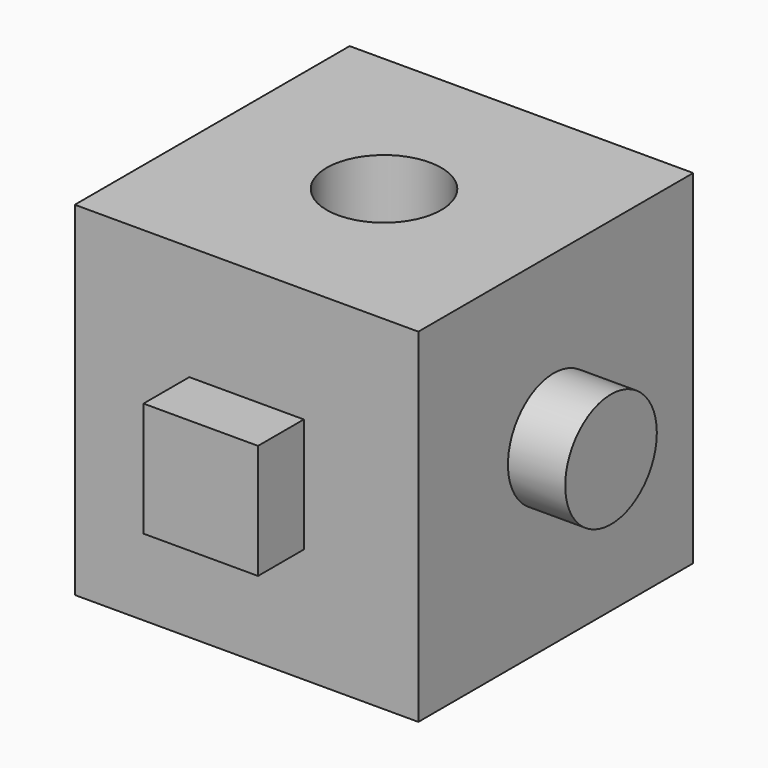
from build123d import *

# Parameters (mm, degrees)
F0_W     = 76.2
F0_H     = 76.2
F1_DEPTH = 76.2
F2_W     = 25.4
F2_H     = 25.4
F3_DEPTH = 12.7
F5_D     = 25.4
F6_R     = 12.7
F7_DEPTH = 12.7


with BuildPart() as f1:
    # F0 (on Front) → F1 (new body)
    with BuildSketch(Plane.XZ):
        with Locations((-31.975927, -2.045985)):
            Rectangle(F0_W, F0_H)
    extrude(amount=F1_DEPTH)

    # F2 (on face) → F3 (join)
    with BuildSketch(Plane.XZ.offset(76.2)):
        with Locations((-31.975927, -2.045985)):
            Rectangle(F2_W, F2_H)
    extrude(amount=F3_DEPTH)

    # F5 (through all)
    with Locations(Plane.XY.offset(36.054015)):
        with Locations((-31.975927, -38.1)):
            Hole(F5_D / 2)

    # F6 (on face) → F7 (join)
    with BuildSketch(Plane.YZ.offset(6.124073)):
        with Locations((-38.664356, 0)):
            Circle(F6_R)
    extrude(amount=F7_DEPTH)


solid = f1.part
